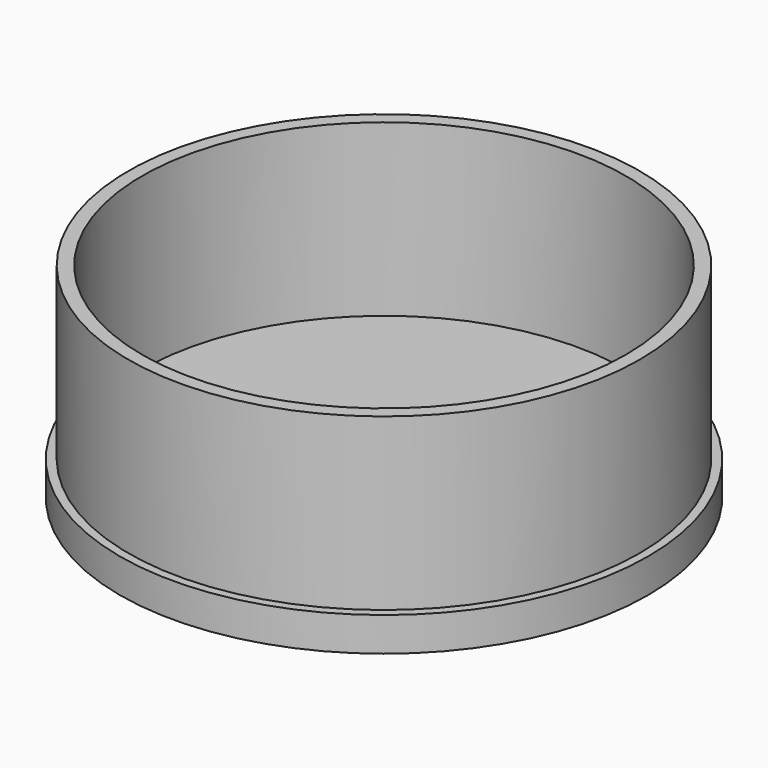
from build123d import *

# Parameters (mm, degrees)
F0_R     = 39.37
F1_DEPTH = 5.08
F2_R     = 38.1
F2_R_2   = 36.068
F3_DEPTH = 25.4
F4_W     = 25.4
F4_H     = 5.08
F5_DEPTH = 5.08


with BuildPart() as f1:
    # F0 (on Top) → F1 (new body)
    with BuildSketch(Plane.XY):
        Circle(F0_R)
    extrude(amount=F1_DEPTH)

    # F2 (on face) → F3 (join)
    with BuildSketch(Plane.XY.offset(5.08)):
        Circle(F2_R)
        Circle(F2_R_2, mode=Mode.SUBTRACT)
    extrude(amount=F3_DEPTH)

    # F4 (on face) → F5 (cut)
    with BuildSketch(Plane(origin=(0, 0, 0), x_dir=(1, 0, 0), z_dir=(0, 0, -1))):
        with Locations((0, -2.54)):
            Rectangle(F4_W, F4_H)
    extrude(amount=-F5_DEPTH, mode=Mode.SUBTRACT)


solid = f1.part
